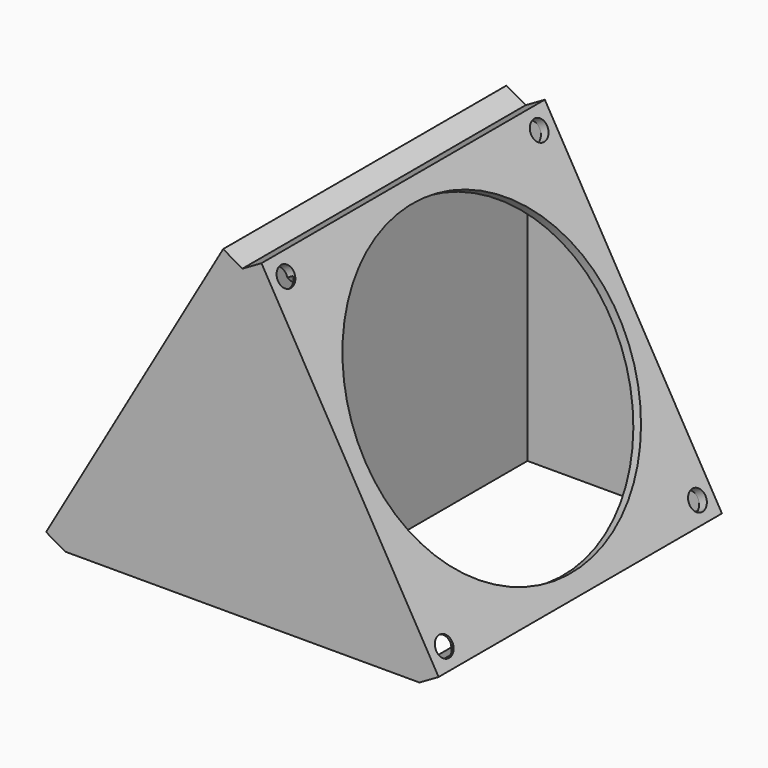
from build123d import *

# Parameters (mm, degrees)
F1_DEPTH = 40
F2_DEPTH = 5
F4_T     = -2
F3_R     = 35.75
F5_DEPTH = 5
F6_D     = 4.5
F6_DEPTH = 2
F6_TIP   = 1.3519363928
F8_DEPTH = 1.5


with BuildPart() as f1:
    # F0 (on Front) → F1 (new body, symmetric)
    with BuildSketch(Plane.XZ):
        Polygon((0, 69.2820323028), (-40, 0), (0, 0), align=None)
    extrude(amount=F1_DEPTH, both=True)

    # F2 (add): a face of the model
    f2_faces = [f1.faces().sort_by_distance(p)[0] for p in [
        (-20, 0, 34.6410161514),
    ]]
    extrude(f2_faces, amount=F2_DEPTH)

    # F4
    f4_openings = [f1.faces().sort_by_distance(p)[0] for p in [
        (-20, 0, 0),
    ]]
    offset(amount=F4_T, openings=f4_openings)

    # F3 (on face) → F5 (cut)
    with BuildSketch(Plane(origin=(-34.3301270189, 0, 19.8205080757), x_dir=(0, -1, 0), z_dir=(-0.8660254038, 0, 0.5))):
        with Locations((0, 20)):
            Circle(F3_R)
    extrude(amount=-F5_DEPTH, mode=Mode.SUBTRACT)

    # F6
    with Locations(Plane(origin=(-34.3301270189, 0, 19.8205080757), x_dir=(0, -1, 0), z_dir=(-0.8660254038, 0, 0.5))):
        with Locations((35.75, 55.75), (35.75, -15.75), (-35.75, -15.75), (-35.75, 55.75)):
            Hole(F6_D / 2, depth=F6_DEPTH)
            with Locations((0, 0, -(F6_DEPTH + F6_TIP / 2))):  # 118° drill point
                Cone(0, F6_D / 2, F6_TIP, mode=Mode.SUBTRACT)

    # F7 (on face) → F8 (cut)
    with BuildSketch(Plane(origin=(-32.5980762114, 0, 18.8205080757), x_dir=(0, 1, 0), z_dir=(0.8660254038, 0, -0.5))):
        Polygon((-33.7004065444, -12.2), (-37.7995934556, -12.2), (-39.8491869112, -15.75), (-37.7995934556, -19.3), (-33.7004065444, -19.3), (-31.6508130888, -15.75), align=None)
        Polygon((-37.7995934556, 55.3), (-39.8491869112, 51.75), (-37.7995934556, 48.2), (-33.7004065444, 48.2), (-31.6508130888, 51.75), (-33.7004065444, 55.3), align=None)
        Polygon((29.7004065444, -12.2), (27.6508130888, -15.75), (29.7004065444, -19.3), (33.7995934556, -19.3), (35.8491869112, -15.75), (33.7995934556, -12.2), align=None)
        Polygon((29.7004065444, 55.3), (27.6508130888, 51.75), (29.7004065444, 48.2), (33.7995934556, 48.2), (35.8491869112, 51.75), (33.7995934556, 55.3), align=None)
    extrude(amount=-F8_DEPTH, mode=Mode.SUBTRACT)

    # F9: F1 across face


with BuildPart() as f1_1:
    add(f1.part)
    add(f1.part.mirror(Plane(origin=(0, 0, 34.6410161514), x_dir=(0, 1, 0), z_dir=(1, 0, 0))))


solid = f1_1.part
